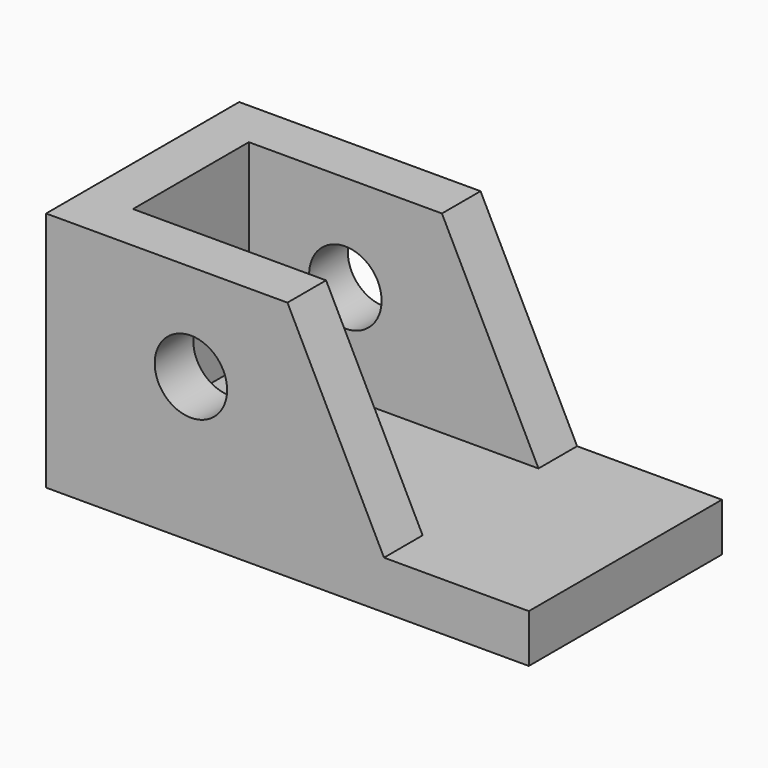
from build123d import *

# Parameters (mm, degrees)
F0_W     = 100
F0_H     = 50
F1_DEPTH = 50
F3_DEPTH = 50.001
F4_W     = 50
F4_H     = 30
F4_W_2   = 40
F5_DEPTH = 40
F6_R     = 7.5
F7_DEPTH = 50.001


with BuildPart() as f1:
    # F0 (on Top) → F1 (new body)
    with BuildSketch(Plane.XY):
        with Locations((16.063266, 0)):
            Rectangle(F0_W, F0_H)
    extrude(amount=F1_DEPTH)

    # F2 (on face) → F3 (cut, through all)
    with BuildSketch(Plane.XZ.offset(25)):
        Polygon((66.063266, 50), (16.063266, 50), (36.063266, 10), (66.063266, 10), align=None)
    extrude(amount=-F3_DEPTH, mode=Mode.SUBTRACT)

    # F4 (on face) → F5 (cut)
    with BuildSketch(Plane.XY.offset(50)):
        with Locations((41.063266, 0)):
            Rectangle(F4_W, F4_H)
        with Locations((-3.936734, 0)):
            Rectangle(F4_W_2, F4_H)
    extrude(amount=-F5_DEPTH, mode=Mode.SUBTRACT)

    # F6 (on face) → F7 (cut, through all)
    with BuildSketch(Plane.XZ.offset(25)):
        with Locations((-3.936734, 30)):
            Circle(F6_R)
    extrude(amount=-F7_DEPTH, mode=Mode.SUBTRACT)


solid = f1.part
